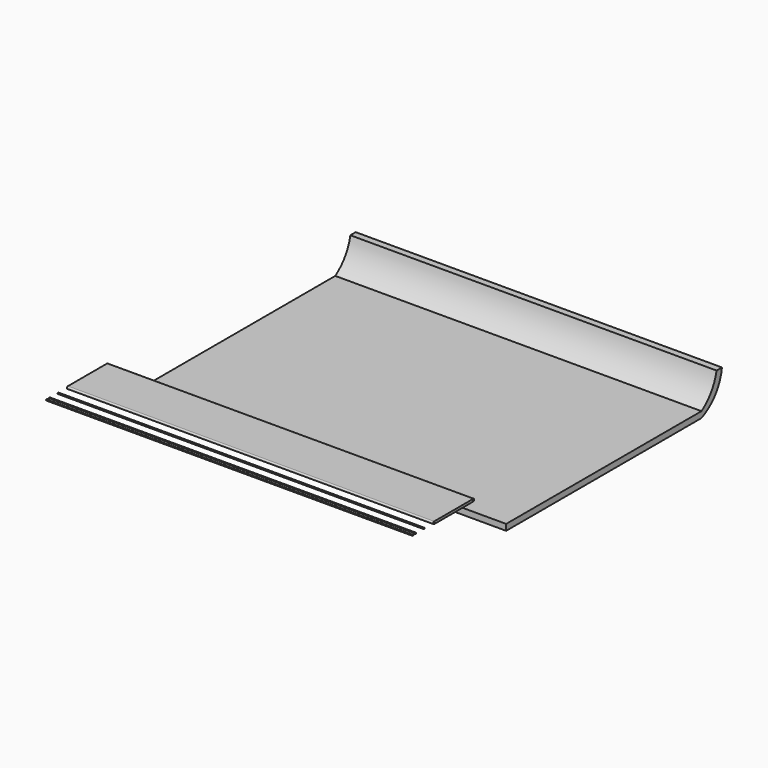
from build123d import *

# Parameters (mm, degrees)
F0_R     = 0.25
F1_DEPTH = 150
F2_DEPTH = 150
F3_DEPTH = 150
F4_DEPTH = 150


with BuildPart() as f1:
    # F0 (on Right) → F1 (new body)
    with BuildSketch(Plane.YZ):
        with BuildLine():
            Line((0, 28.245231), (-20, 28.245231))
            ThreePointArc((-20, 28.245231), (-20.5, 27.745231), (-20, 27.245231))
            Line((-20, 27.245231), (0, 27.245231))
            ThreePointArc((0, 27.245231), (0.5, 27.745231), (0, 28.245231))
        make_face()
        with Locations((-20, 27.745231)):
            Circle(F0_R, mode=Mode.SUBTRACT)
        with Locations((0, 27.745231)):
            Circle(F0_R, mode=Mode.SUBTRACT)
    extrude(amount=F1_DEPTH)


with BuildPart() as f2:
    # F0 (on Right) → F2 (new body)
    with BuildSketch(Plane.YZ):
        with Locations((-25.094866, 27.745231)):
            Circle(F0_R)
    extrude(amount=F2_DEPTH)


with BuildPart() as f3:
    # F0 (on Right) → F3 (new body)
    with BuildSketch(Plane.YZ):
        with BuildLine():
            Line((116.861985, 12.347517), (16.861985, 12.347517))
            Line((16.861985, 12.347517), (16.861985, 9.847517))
            Line((16.861985, 9.847517), (116.861985, 9.847517))
            ThreePointArc((116.861985, 9.847517), (123.996263, 15.438008), (127.337039, 23.863608))
            Line((127.337039, 23.863608), (124.58434, 23.863608))
            ThreePointArc((124.58434, 23.863608), (121.897268, 17.318241), (116.861985, 12.347517))
        make_face()
    extrude(amount=F3_DEPTH)


with BuildPart() as f4:
    # F0 (on Right) → F4 (new body)
    with BuildSketch(Plane.YZ):
        with BuildLine():
            ThreePointArc((-29.445458, 27.995231), (-29.545362, 27.974393), (-29.628614, 27.915369))
            ThreePointArc((-29.628614, 27.915369), (-29.664619, 27.865482), (-29.68735, 27.808313))
            Line((-29.68735, 27.808313), (-30.712033, 27.808313))
            ThreePointArc((-30.712033, 27.808313), (-30.734764, 27.865482), (-30.770769, 27.915369))
            ThreePointArc((-30.770769, 27.915369), (-30.850632, 27.972885), (-30.946507, 27.99512))
            ThreePointArc((-30.946507, 27.99512), (-31.203658, 27.733284), (-30.922685, 27.497192))
            ThreePointArc((-30.922685, 27.497192), (-30.819696, 27.534333), (-30.742453, 27.611919))
            ThreePointArc((-30.742453, 27.611919), (-30.720607, 27.655486), (-30.707629, 27.702463))
            Line((-30.707629, 27.702463), (-29.691754, 27.702463))
            ThreePointArc((-29.691754, 27.702463), (-29.678468, 27.654688), (-29.656013, 27.610476))
            ThreePointArc((-29.656013, 27.610476), (-29.565609, 27.526006), (-29.445772, 27.495231))
            ThreePointArc((-29.445772, 27.495231), (-29.19544, 27.745074), (-29.445458, 27.995231))
        make_face()
    extrude(amount=F4_DEPTH)


solid = Compound([f1.part, f2.part, f3.part, f4.part])
